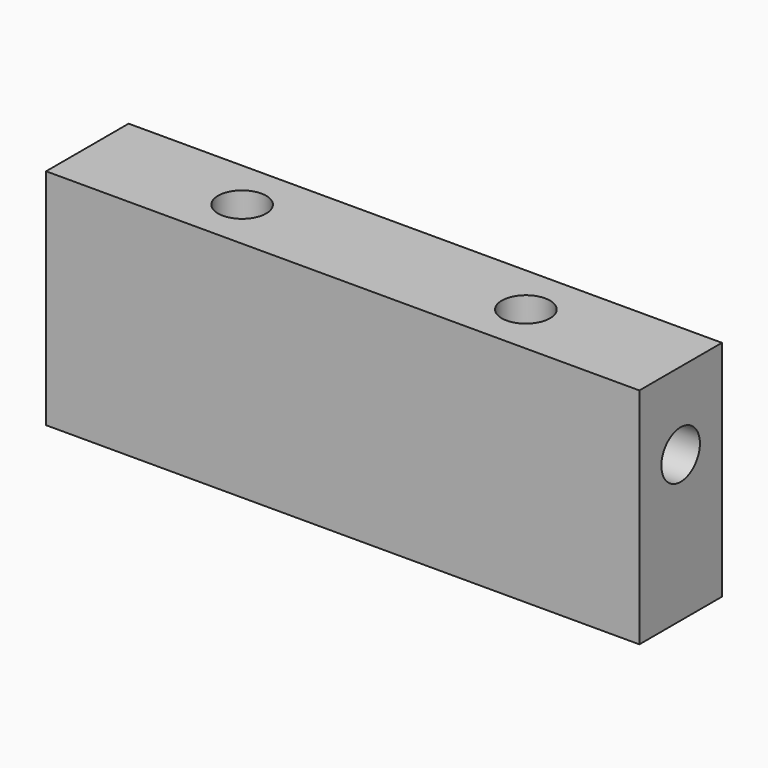
from build123d import *

# Parameters (mm, degrees)
F0_W     = 34.5
F0_H     = 6
F0_R     = 1.4
F1_DEPTH = 13
F2_R     = 1.4
F3_DEPTH = 10
F4_R     = 1.4
F5_DEPTH = 10


with BuildPart() as f1:
    # F0 (on Top) → F1 (new body)
    with BuildSketch(Plane.XY):
        with Locations((17.25, 3)):
            Rectangle(F0_W, F0_H)
        with Locations((9, 3)):
            Circle(F0_R, mode=Mode.SUBTRACT)
        with Locations((25.5, 3)):
            Circle(F0_R, mode=Mode.SUBTRACT)
    extrude(amount=F1_DEPTH)

    # F2 (on face) → F3 (cut)
    with BuildSketch(Plane(origin=(0, 0, 0), x_dir=(0, -1, 0), z_dir=(-1, 0, 0))):
        with Locations((-3, 8.5)):
            Circle(F2_R)
    extrude(amount=-F3_DEPTH, mode=Mode.SUBTRACT)

    # F4 (on face) → F5 (cut)
    with BuildSketch(Plane.YZ.offset(34.5)):
        with Locations((3, 8.5)):
            Circle(F4_R)
    extrude(amount=-F5_DEPTH, mode=Mode.SUBTRACT)


solid = f1.part
